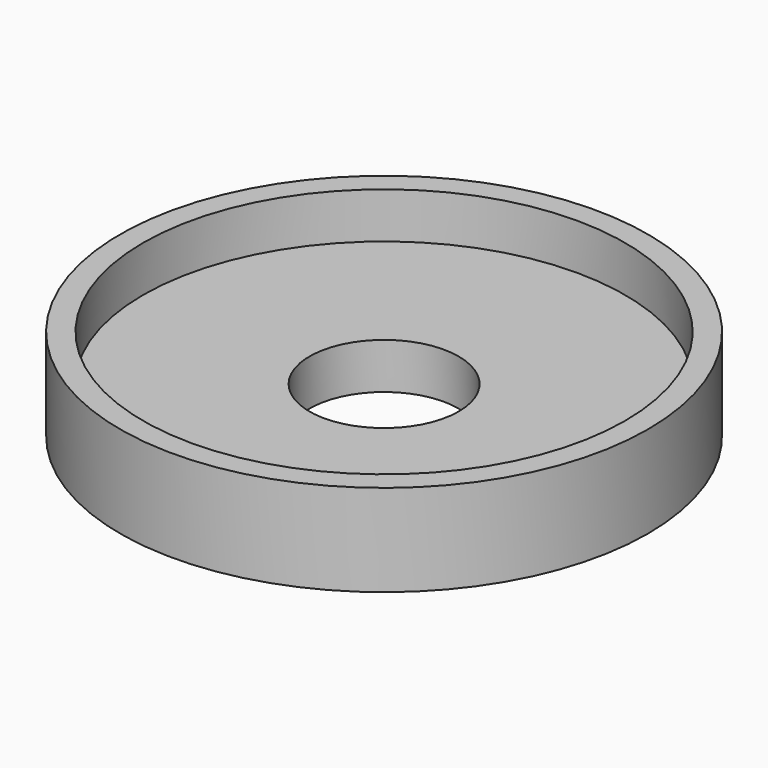
from build123d import *

# Parameters (mm, degrees)
F0_R     = 23
F1_DEPTH = 4
F2_R     = 23
F2_R_2   = 21
F3_DEPTH = 4
F4_R     = 6.5
F5_DEPTH = 4


with BuildPart() as f1:
    # F0 (on Top) → F1 (new body)
    with BuildSketch(Plane.XY):
        Circle(F0_R)
    extrude(amount=F1_DEPTH)

    # F2 (on face) → F3 (join)
    with BuildSketch(Plane.XY.offset(4)):
        Circle(F2_R)
        Circle(F2_R_2, mode=Mode.SUBTRACT)
    extrude(amount=F3_DEPTH)

    # F4 (on face) → F5 (cut, through all)
    with BuildSketch(Plane.XY.offset(4)):
        Circle(F4_R)
    extrude(amount=-F5_DEPTH, mode=Mode.SUBTRACT)


solid = f1.part
